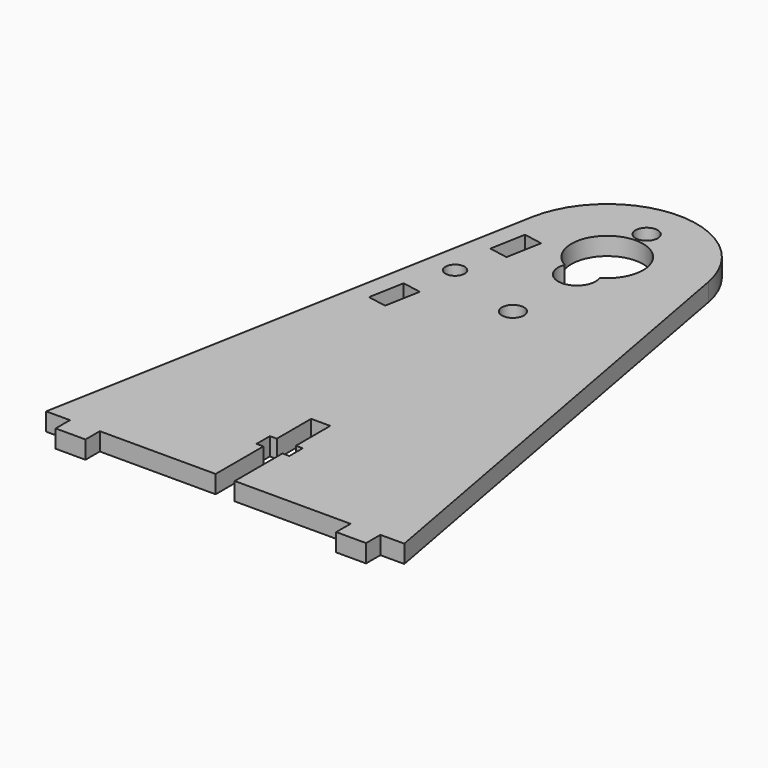
from build123d import *

# Parameters (mm, degrees)
PAD004_DEPTH    = 3
SKETCH006_W     = 5
SKETCH006_H     = 3
PAD005_DEPTH    = 3
SKETCH008_R     = 1.85
POCKET002_DEPTH = 3.001
POCKET009_DEPTH = 3.001
SKETCH019_R     = 1.6
POCKET012_DEPTH = 3.001


with BuildPart() as part:
    # Sketch005 → Pad004 (new body)
    with BuildSketch(Plane.XY):
        with BuildLine():
            ThreePointArc((14.751455, 2.719296), (0, 15), (-14.751455, 2.719296))
            Line((-14.751455, 2.719296), (-30, -80))
            Line((-30, -80), (30, -80))
            Line((30, -80), (14.751455, 2.719296))
        make_face()
    extrude(amount=PAD004_DEPTH)

    # Sketch006 → Pad005 (join)
    with BuildSketch(Plane.XY):
        with Locations((-23.5, -81.5)):
            Rectangle(SKETCH006_W, SKETCH006_H)
        with Locations((23.5, -81.5)):
            Rectangle(SKETCH006_W, SKETCH006_H)
    extrude(amount=PAD005_DEPTH)

    # Sketch008 (on Face13 of Pad005) → Pocket002 (cut, through all)
    with BuildSketch(Plane(origin=(0, 0, 0), x_dir=(1, 0, 0), z_dir=(0, 0, -1))):
        with Locations((0, -8.25)):
            Circle(SKETCH008_R)
        with Locations((0, 19.75)):
            Circle(SKETCH008_R)
        with BuildLine():
            ThreePointArc((-2.943534, 5.228346), (0, -6), (2.943534, 5.228346))
            ThreePointArc((2.943534, 5.228346), (0, 9.5), (-2.943534, 5.228346))
        make_face()
    extrude(amount=-POCKET002_DEPTH, mode=Mode.SUBTRACT)

    # Sketch016 (on Face2 of Pocket002) → Pocket009 (cut, through all)
    with BuildSketch(Plane(origin=(0, 0, 0), x_dir=(1, 0, 0), z_dir=(0, 0, -1))):
        Polygon((-1.6, 80), (1.6, 80), (1.6, 70), (2.75, 70), (2.75, 67.2), (1.6, 67.2), (1.6, 60), (-1.6, 60), (-1.6, 67.2), (-2.75, 67.2), (-2.75, 70), (-1.6, 70), align=None)
    extrude(amount=-POCKET009_DEPTH, mode=Mode.SUBTRACT)

    # Sketch019 (on Face4 of Pocket009) → Pocket012 (cut, through all)
    with BuildSketch(Plane.XY.offset(3)):
        with Locations((-13.203501, -15.36091)):
            Circle(SKETCH019_R)
        Polygon((-13.417342, -7.695124), (-12.329624, -1.794542), (-9.182647, -2.374659), (-10.270365, -8.275241), align=None)
        Polygon((-12.98966, -23.026696), (-16.136638, -22.446579), (-17.224356, -28.347161), (-14.077379, -28.927278), align=None)
    extrude(amount=-POCKET012_DEPTH, mode=Mode.SUBTRACT)


solid = part.part
